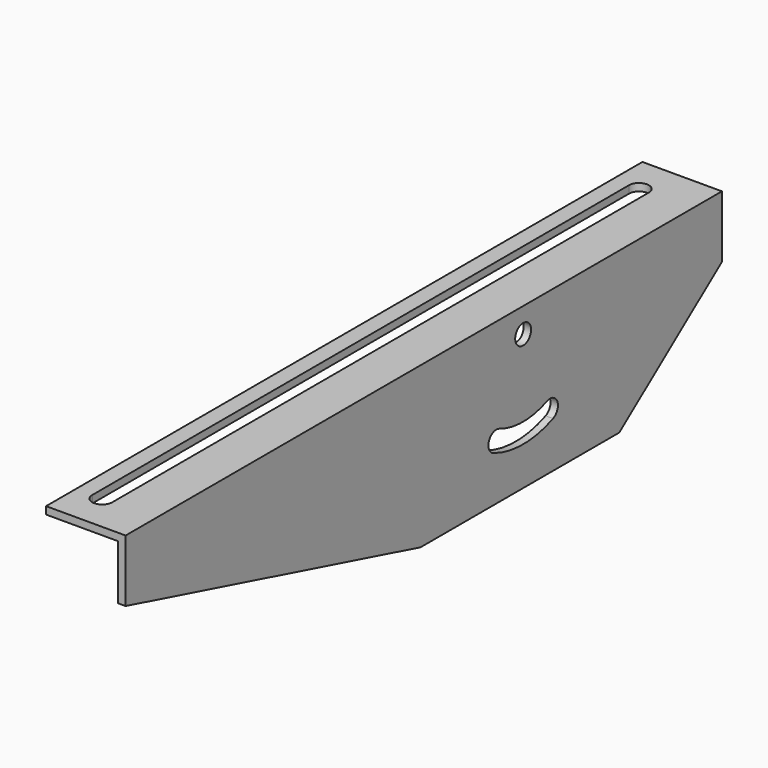
from build123d import *

# Parameters (mm, degrees)
F1_DEPTH = 3
F2_W     = 300
F2_H     = 3
F3_DEPTH = 29
F5_DEPTH = 64.501
F6_R     = 4
F7_DEPTH = 3.001


with BuildPart() as f1:
    # F0 (on Right) → F1 (new body)
    with BuildSketch(Plane.YZ):
        Polygon((150, -25), (150, 0), (-150, 0), (-150, -25), (-1.621217, -64.5), (98.378783, -64.5), align=None)
    extrude(amount=F1_DEPTH)

    # F2 (on face) → F3 (join)
    with BuildSketch(Plane(origin=(0, 0, 0), x_dir=(0, -1, 0), z_dir=(-1, 0, 0))):
        with Locations((0, -1.5)):
            Rectangle(F2_W, F2_H)
    extrude(amount=F3_DEPTH)

    # F4 (on face) → F5 (cut, through all)
    with BuildSketch(Plane.XY):
        with BuildLine():
            ThreePointArc((-22.4, -135), (-18.4, -139), (-14.4, -135))
            Line((-14.4, -135), (-14.4, 135))
            ThreePointArc((-14.4, 135), (-18.4, 139), (-22.4, 135))
            Line((-22.4, 135), (-22.4, -135))
        make_face()
    extrude(amount=-F5_DEPTH, mode=Mode.SUBTRACT)

    # F6 (on face) → F7 (cut, through all)
    with BuildSketch(Plane(origin=(0, 0, 0), x_dir=(0, -1, 0), z_dir=(-1, 0, 0))):
        with Locations((-50, -10)):
            Circle(F6_R)
        with BuildLine():
            ThreePointArc((-61.957143, -38.601167), (-67.190473, -40.748783), (-65.042857, -45.982113))
            ThreePointArc((-65.042857, -45.982113), (-50, -49), (-34.957143, -45.982113))
            ThreePointArc((-34.957143, -45.982113), (-32.809527, -40.748783), (-38.042857, -38.601167))
            ThreePointArc((-38.042857, -38.601167), (-50, -41), (-61.957143, -38.601167))
        make_face()
    extrude(amount=-F7_DEPTH, mode=Mode.SUBTRACT)


solid = f1.part
